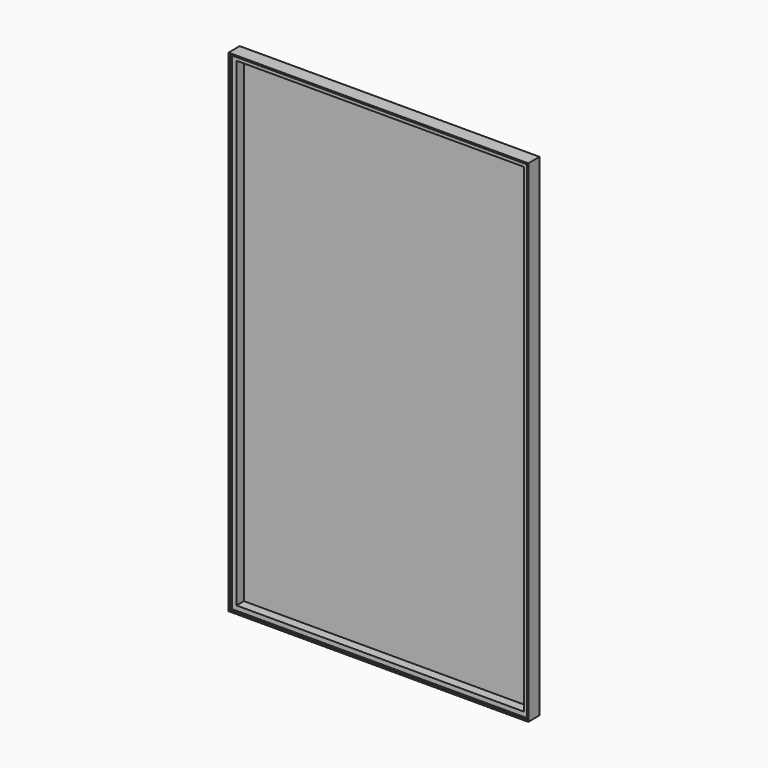
from build123d import *

# Parameters (mm, degrees)
F0_W     = 3
F0_H     = 1044
F1_DEPTH = 30
F2_W     = 634
F2_H     = 1044
F3_DEPTH = 5
F4_W     = 10
F4_H     = 1024
F5_DEPTH = 20


with BuildPart() as f1:
    # F0 (on Front) → F1 (new body)
    with BuildSketch(Plane.XZ):
        Polygon((-634, 0), (0, 0), (3, 0), (3, 3), (-637, 3), (-637, 0), align=None)
        with Locations((1.5, -522)):
            Rectangle(F0_W, F0_H)
        with Locations((-635.5, -522)):
            Rectangle(F0_W, F0_H)
        Polygon((3, -1044), (0, -1044), (-634, -1044), (-637, -1044), (-637, -1047), (3, -1047), align=None)
    extrude(amount=F1_DEPTH)

    # F2 (on Front) → F3 (join)
    with BuildSketch(Plane.XZ):
        with Locations((-317, -522)):
            Rectangle(F2_W, F2_H)
    extrude(amount=F3_DEPTH)

    # F4 (on face) → F5 (join)
    with BuildSketch(Plane.XZ.offset(5)):
        Polygon((0, -10), (0, 0), (-634, 0), (-634, -10), (-624, -10), (-10, -10), align=None)
        with Locations((-629, -522)):
            Rectangle(F4_W, F4_H)
        Polygon((0, -1044), (0, -1034), (-10, -1034), (-624, -1034), (-634, -1034), (-634, -1044), align=None)
        with Locations((-5, -522)):
            Rectangle(F4_W, F4_H)
    extrude(amount=F5_DEPTH)


solid = f1.part
